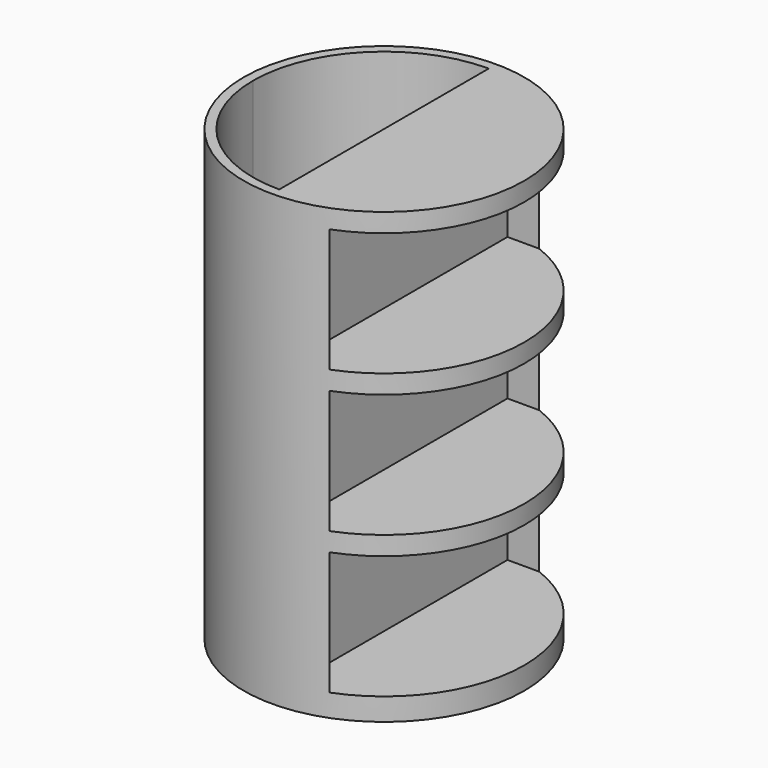
from build123d import *

# Parameters (mm, degrees)
F0_R     = 37.5
F1_DEPTH = 120
F3_DEPTH = 115
F4_W     = 70
F4_H     = 33
F5_DEPTH = 40
F6_W     = 5
F6_H     = 70
F7_DEPTH = 109


with BuildPart() as f1:
    # F0 (on Top) → F1 (new body)
    with BuildSketch(Plane.XY):
        Circle(F0_R)
    extrude(amount=F1_DEPTH)

    # F2 (on face) → F3 (cut)
    with BuildSketch(Plane.XY.offset(120)):
        with BuildLine():
            Line((0, -35), (0, 35))
            ThreePointArc((0, 35), (-24.748737, 24.748737), (-35, 0))
            ThreePointArc((-35, 0), (-24.748737, -24.748737), (0, -35))
        make_face()
    extrude(amount=-F3_DEPTH, mode=Mode.SUBTRACT)

    # F4 (on face) → F5 (cut)
    with BuildSketch(Plane(origin=(0, 0, 0), x_dir=(0, -1, 0), z_dir=(-1, 0, 0))):
        with Locations((0, 22.5)):
            Rectangle(F4_W, F4_H)
        with Locations((0, 60.5)):
            Rectangle(F4_W, F4_H)
        with Locations((0, 98.5)):
            Rectangle(F4_W, F4_H)
    extrude(amount=-F5_DEPTH, mode=Mode.SUBTRACT)

    # F6 (on face) → F7 (join)
    with BuildSketch(Plane.XY.offset(6)):
        with Locations((2.5, 0)):
            Rectangle(F6_W, F6_H)
    extrude(amount=F7_DEPTH)


solid = f1.part
